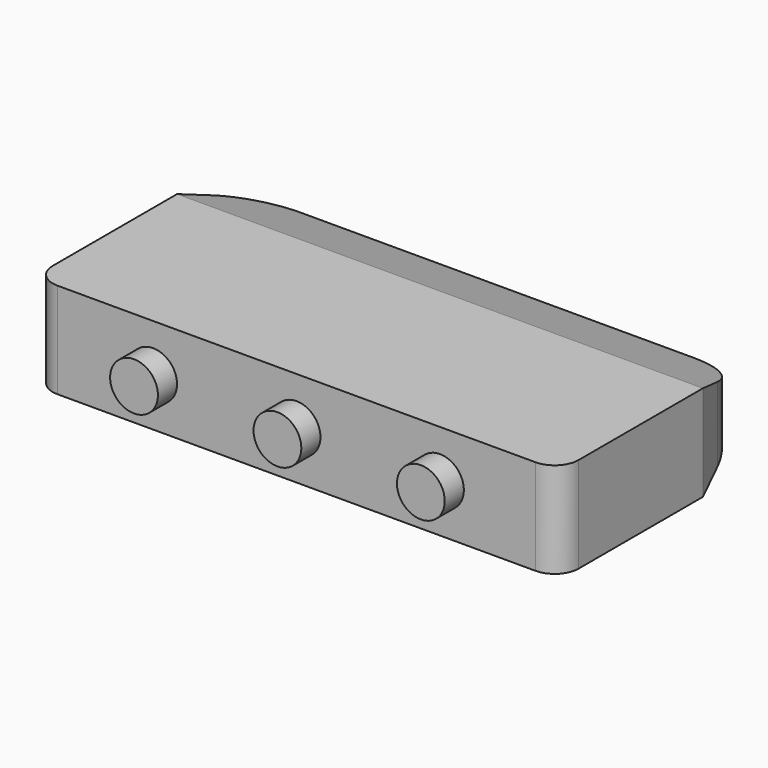
from build123d import *

# Parameters (mm, degrees)
F0_W     = 440
F0_H     = 210
F1_DEPTH = 80
F2_SIZE2 = 60
F2_SIZE  = 20
F3_R     = 50
F4_R     = 50
F5_R     = 20
F6_R     = 20
F7_R     = 20
F8_DEPTH = 20


with BuildPart() as f1:
    # F0 (on Top) → F1 (new body)
    with BuildSketch(Plane.XY):
        with Locations((220, 105)):
            Rectangle(F0_W, F0_H)
    extrude(amount=F1_DEPTH)

    # F2
    f2_edges = [f1.edges().sort_by_distance(p)[0] for p in [
        (440, 210, 40),
        (0, 210, 40),
        (220, 210, 0),
        (220, 210, 80),
    ]]
    f2_side = f1.faces().sort_by_distance((220, 210, 40))[0]
    chamfer(f2_edges, length=F2_SIZE, length2=F2_SIZE2, reference=f2_side)

    # F3
    f3_edges = [f1.edges().sort_by_distance(p)[0] for p in [
        (20, 210, 40),
    ]]
    fillet(f3_edges, radius=F3_R)

    # F4
    f4_edges = [f1.edges().sort_by_distance(p)[0] for p in [
        (420, 210, 40),
    ]]
    fillet(f4_edges, radius=F4_R)

    # F5
    f5_edges = [f1.edges().sort_by_distance(p)[0] for p in [
        (0, 0, 40),
    ]]
    fillet(f5_edges, radius=F5_R)

    # F6
    f6_edges = [f1.edges().sort_by_distance(p)[0] for p in [
        (440, 0, 40),
    ]]
    fillet(f6_edges, radius=F6_R)

    # F7 (on face) → F8 (join)
    with BuildSketch(Plane.XZ):
        with Locations((100, 40)):
            Circle(F7_R)
        with Locations((220, 40)):
            Circle(F7_R)
        with Locations((340, 40)):
            Circle(F7_R)
    extrude(amount=F8_DEPTH)


solid = f1.part
